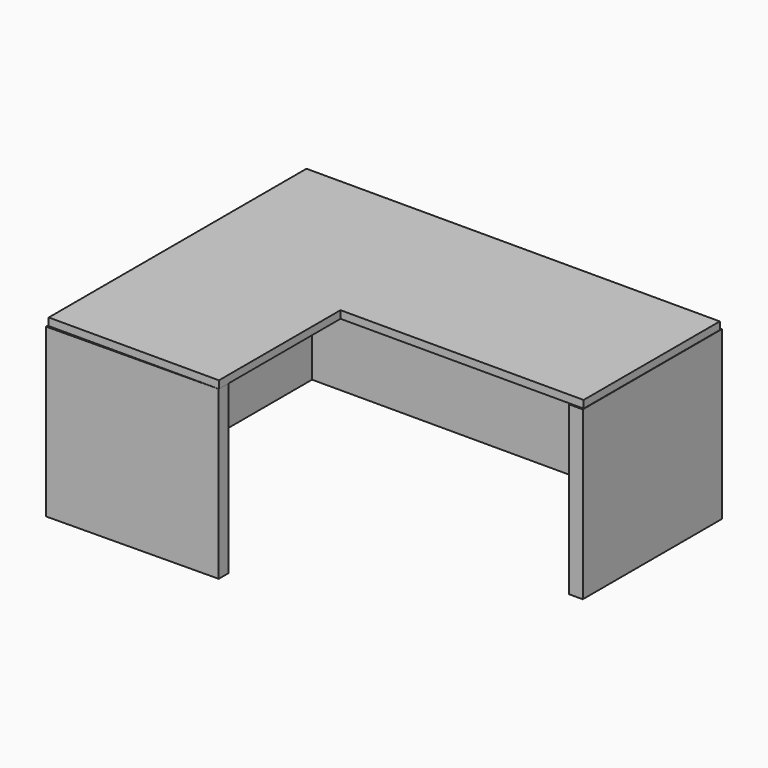
from build123d import *

# Parameters (mm, degrees)
F1_DEPTH = 25
F3_DEPTH = 550


with BuildPart() as f1:
    # F0 (on Top) → F1 (new body)
    with BuildSketch(Plane.XY):
        Polygon((678.801693, 513.320352), (-681.198307, 513.320352), (-681.198307, -546.679648), (-121.198307, -546.679648), (-121.198307, -46.679648), (678.801693, -46.679648), align=None)
    extrude(amount=F1_DEPTH)

    # F2 (on face) → F3 (join)
    with BuildSketch(Plane.XY):
        Polygon((-684.73655, -553.238809), (-121.486515, -547.135234), (-121.486515, -507.623315), (-626.578808, -507.623315), (-626.578808, 468.015522), (634.535074, 468.015522), (634.535074, -51.697545), (679.964542, -51.697545), (679.964542, 520.713687), (-684.73655, 520.713687), align=None)
    extrude(amount=-F3_DEPTH)


solid = f1.part
